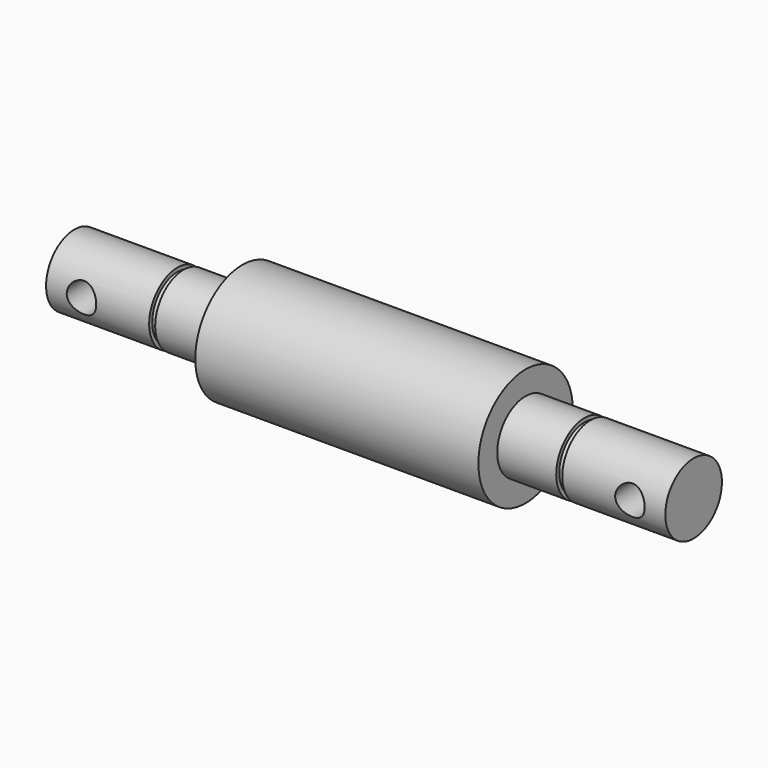
from build123d import *

# Parameters (mm, degrees)
F4_D     = 5
F4_DEPTH = 25


with BuildPart() as f1:
    # F0 (on Front) → F1 (revolve)
    with BuildSketch(Plane.XZ):
        Polygon((0, 6), (0, 0), (105, 0), (105, 6), (87.52, 6), (87.52, 5.35), (86.5, 5.35), (86.5, 6), (76.5, 6), (76.5, 10), (28.5, 10), (28.5, 6), (18.5, 6), (18.5, 5.35), (17.48, 5.35), (17.48, 6), align=None)
    revolve(axis=Axis((52.5, 0, 0), (1, 0, 0)))

    # F4
    with Locations(Plane.XZ.offset(6)):
        with Locations((6, 0), (99, 0)):
            Hole(F4_D / 2, depth=F4_DEPTH)


solid = f1.part
